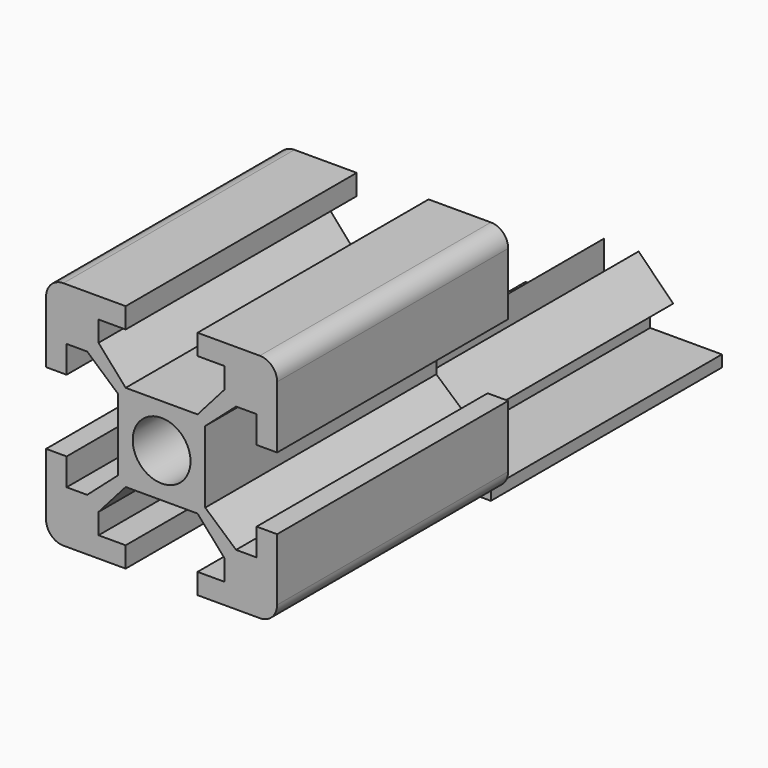
from build123d import *

# Parameters (mm, degrees)
F1_DEPTH = 25
F2_R     = 1.5
F3_R     = 2.5
F4_DEPTH = 25
F6_DEPTH = 25


with BuildPart() as f1:
    # F0 (on Front) → F1 (new body)
    with BuildSketch(Plane.XZ):
        Polygon((10, 3.1115), (10, 10), (3.1115, 10), (3.1115, 8.222), (5.461, 8.222), (5.461, 6.444), (3.1115, 3.777), (0, 3.777), (-3.1115, 3.777), (-5.461, 6.444), (-5.461, 8.222), (-3.1115, 8.222), (-3.1115, 10), (-10, 10), (-10, 3.1115), (-8.222, 3.1115), (-8.222, 5.461), (-6.444, 5.461), (-3.777, 3.1115), (-3.777, 0), (-3.777, -3.1115), (-6.444, -5.461), (-8.222, -5.461), (-8.222, -3.1115), (-10, -3.1115), (-10, -10), (-3.1115, -10), (-3.1115, -8.222), (-5.461, -8.222), (-5.461, -6.444), (-3.1115, -3.777), (0, -3.777), (3.1115, -3.777), (5.461, -6.444), (5.461, -8.222), (3.1115, -8.222), (3.1115, -10), (10, -10), (10, -3.1115), (8.222, -3.1115), (8.222, -5.461), (6.444, -5.461), (3.777, -3.1115), (3.777, 0), (3.777, 3.1115), (6.444, 5.461), (8.222, 5.461), (8.222, 3.1115), align=None)
    extrude(amount=F1_DEPTH)

    # F2
    f2_edges = [f1.edges().sort_by_distance(p)[0] for p in [
        (-10, -12.5, 10),
        (10, -12.5, 10),
        (10, -12.5, -10),
        (-10, -12.5, -10),
    ]]
    fillet(f2_edges, radius=F2_R)

    # F3 (on face) → F4 (cut, through all)
    with BuildSketch(Plane.XZ.offset(25)):
        Circle(F3_R)
    extrude(amount=-F4_DEPTH, mode=Mode.SUBTRACT)


with BuildPart() as f6:
    # F5 (on face) → F6 (new body)
    with BuildSketch(Plane(origin=(0, 0, 0), x_dir=(-1, 0, 0), z_dir=(0, 1, 0))):
        Polygon((8.5, -11.223161), (8.5, -10.223161), (2.71375, -10.223161), (1.71375, -10.223161), (-1.28625, -10.223161), (-2.28625, -10.223161), (-8.5, -10.223161), (-8.5, -11.223161), align=None)
        Polygon((1.71375, -10.223161), (2.71375, -10.223161), (2.71375, -7.723161), (2.71375, -6.723161), (1.71375, -6.723161), align=None)
        Polygon((-2.28625, -10.223161), (-1.28625, -10.223161), (-1.28625, -6.723161), (-2.28625, -6.723161), (-2.28625, -7.723161), align=None)
        Polygon((-2.28625, -6.723161), (-1.28625, -6.723161), (-1.28625, -4.723161), (-4.28625, -7.723161), (-2.28625, -7.723161), align=None)
        Polygon((2.71375, -6.723161), (2.71375, -7.723161), (4.71375, -7.723161), (1.71375, -4.723161), (1.71375, -6.723161), align=None)
    extrude(amount=F6_DEPTH)


solid = Compound([f1.part, f6.part])
